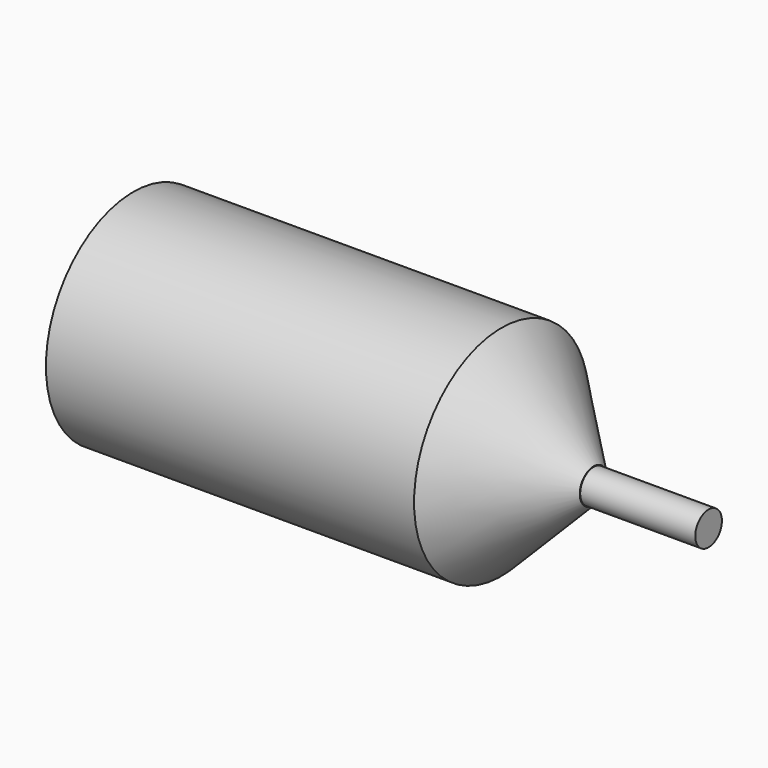
from build123d import *

# Parameters (mm, degrees)
F0_R     = 12.065
F1_DEPTH = 50.8
F2_R     = 1.8415
F3_DEPTH = 12.7
F4_SIZE  = 10.16


with BuildPart() as f1:
    # F0 (on Right) → F1 (new body)
    with BuildSketch(Plane.YZ):
        with Locations((-32.940101, 30.467385)):
            Circle(F0_R)
    extrude(amount=F1_DEPTH)

    # F2 (on face) → F3 (join)
    with BuildSketch(Plane.YZ.offset(50.8)):
        with Locations((-32.940101, 30.467385)):
            Circle(F2_R)
    extrude(amount=F3_DEPTH)

    # F4
    f4_edges = [f1.edges().sort_by_distance(p)[0] for p in [
        (50.8, -45.005101, 30.467385),
    ]]
    chamfer(f4_edges, length=F4_SIZE)


solid = f1.part
